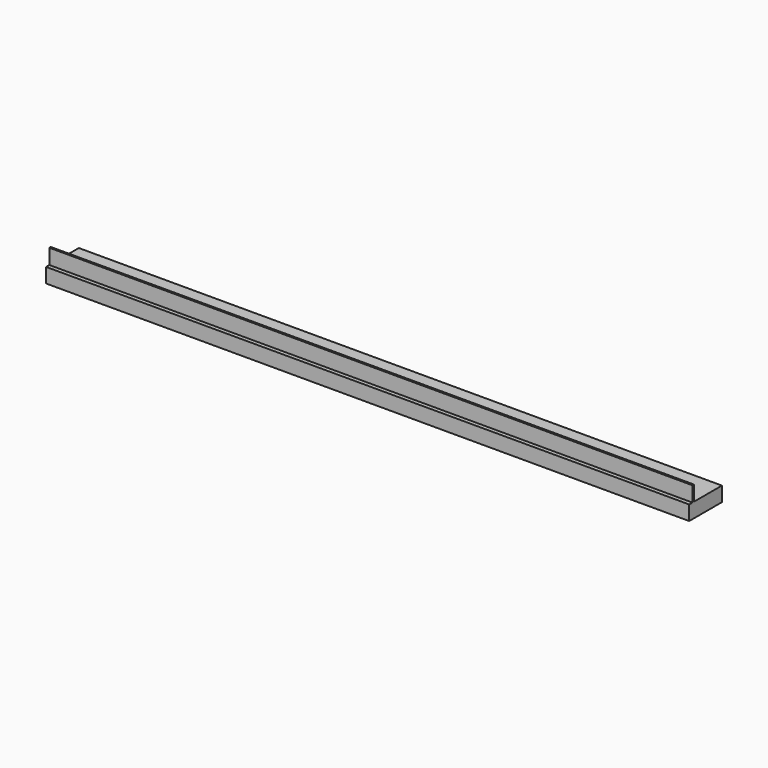
from build123d import *

# Parameters (mm, degrees)
SKETCH_W     = 550
SKETCH_H     = 35
PAD_DEPTH    = 12.5
SKETCH001_W  = 550
SKETCH001_H  = 1.5
PAD001_DEPTH = 13


with BuildPart() as part:
    # Sketch → Pad (new body)
    with BuildSketch(Plane.XY):
        Rectangle(SKETCH_W, SKETCH_H)
    extrude(amount=PAD_DEPTH)

    # Sketch001 (on Face6 of Pad) → Pad001 (join)
    with BuildSketch(Plane.XY.offset(12.5)):
        with Locations((0, -13.25)):
            Rectangle(SKETCH001_W, SKETCH001_H)
    extrude(amount=PAD001_DEPTH)


solid = part.part
